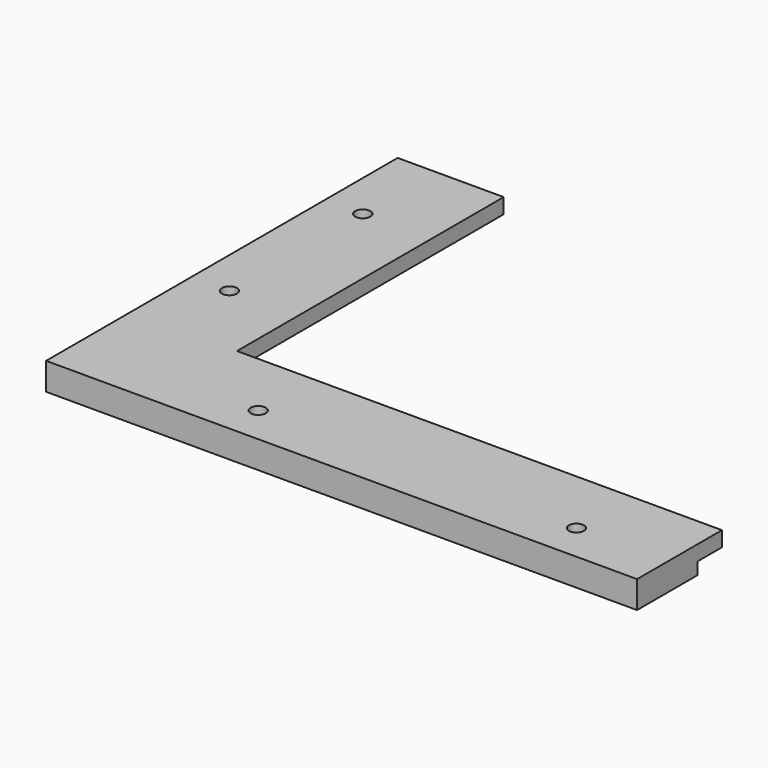
from build123d import *

# Parameters (mm, degrees)
F1_DEPTH  = 12
F2_W      = 200
F2_H      = 20
F3_DEPTH  = 5
F4_W      = 155
F4_H      = 20
F5_DEPTH  = 5
F6_R      = 2.5
F7_DEPTH  = 25
F9_DEPTH  = 5
F10_W     = 195
F10_H     = 30
F10_W_2   = 30
F10_H_2   = 145
F11_DEPTH = 25
F12_W     = 145
F12_H     = 16
F13_DEPTH = 195.0010001


with BuildPart() as f1:
    # F0 (on Top) → F1 (new body)
    with BuildSketch(Plane.XY):
        with BuildLine():
            add(Edge.make_bspline(
                [(-176, 0), (-176, -130), (0, -130)],
                knots=[3.1415926536, 3.1415926536, 3.1415926536, 4.7123889804, 4.7123889804, 4.7123889804], degree=2, weights=[1, 0.7071067812, 1]))
            Line((-176, 0), (-176, -130))
            Line((-176, -130), (0, -130))
        make_face()
        Polygon((-176, -130), (-176, 0), (-200, 0), (-200, -150), (0, -150), (0, -130), align=None)
    extrude(amount=F1_DEPTH)

    # F2 (on face) → F3 (join)
    with BuildSketch(Plane.XZ.offset(150)):
        with Locations((-100, 6)):
            Rectangle(F2_W, F2_H)
    extrude(amount=F3_DEPTH)

    # F4 (on face) → F5 (join)
    with BuildSketch(Plane(origin=(-200, 0, 0), x_dir=(0, -1, 0), z_dir=(-1, 0, 0))):
        with Locations((77.5, 6)):
            Rectangle(F4_W, F4_H)
    extrude(amount=F5_DEPTH)

    # F6 (on face) → F7 (join)
    with BuildSketch(Plane(origin=(0, 0, -4), x_dir=(1, 0, 0), z_dir=(0, 0, -1))):
        Polygon((0, 155), (0, 175), (-225, 175), (-225, 0), (-205, 0), (-205, 155), align=None)
        with Locations((-212.5, 60)):
            Circle(F6_R, mode=Mode.SUBTRACT)
        with Locations((-212.5, 115)):
            Circle(F6_R, mode=Mode.SUBTRACT)
        with Locations((-165, 162.5)):
            Circle(F6_R, mode=Mode.SUBTRACT)
        with Locations((-60, 162.5)):
            Circle(F6_R, mode=Mode.SUBTRACT)
    extrude(amount=-F7_DEPTH)

    # F8 (on face) → F9 (join)
    with BuildSketch(Plane.XY.offset(16)):
        Polygon((-190, 0), (-205, 0), (-205, -155), (0, -155), (0, -140), (-190, -140), align=None)
    extrude(amount=F9_DEPTH)

    # F10 (on Top) → F11 (cut, symmetric)
    with BuildSketch(Plane.XY):
        with Locations((-127.5, -15)):
            Rectangle(F10_W, F10_H)
        with Locations((-15, -15)):
            Rectangle(F10_W_2, F10_H)
        with Locations((-15, -102.5)):
            Rectangle(F10_W_2, F10_H_2)
    extrude(amount=F11_DEPTH, both=True, mode=Mode.SUBTRACT)

    # F12 (on face) → F13 (cut, through all)
    with BuildSketch(Plane.YZ.offset(-30)):
        with Locations((-102.5, 4)):
            Rectangle(F12_W, F12_H)
    extrude(amount=-F13_DEPTH, mode=Mode.SUBTRACT)


solid = f1.part
